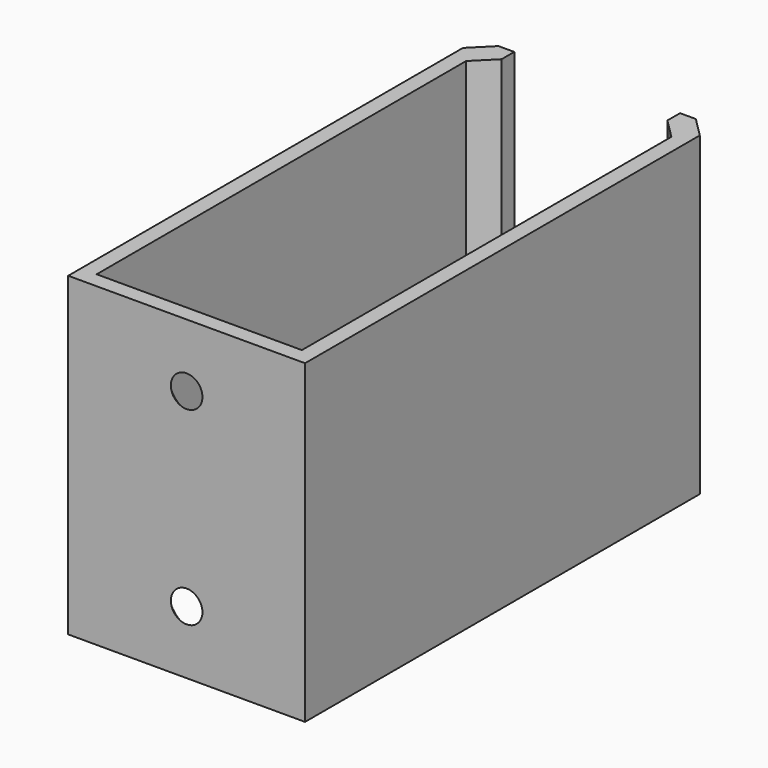
from build123d import *

# Parameters (mm, degrees)
PAD_DEPTH        = 20
HOLE_D           = 4
HOLE_DEPTH       = 25
HOLE_CSINK_D     = 8
HOLE_CSINK_ANGLE = 90


with BuildPart() as part:
    # Sketch → Pad (new body, symmetric)
    with BuildSketch(Plane.XY):
        Polygon((-13, -30.5), (13, -30.5), (13, 28), (10.5, 30.5), (10.5, 32.5), (12.5, 32.5), (15, 30), (15, -32.5), (-15, -32.5), (-15, 30), (-12.5, 32.5), (-10.5, 32.5), (-10.5, 30.5), (-13, 28), align=None)
    extrude(amount=PAD_DEPTH, both=True)

    # Hole
    with Locations(Plane(origin=(0, -30.5, 0), x_dir=(-1, 0, 0), z_dir=(0, 1, 0))):
        with Locations((0, 12), (0, -12)):
            CounterSinkHole(HOLE_D / 2, HOLE_CSINK_D / 2, depth=HOLE_DEPTH, counter_sink_angle=HOLE_CSINK_ANGLE)


solid = part.part
